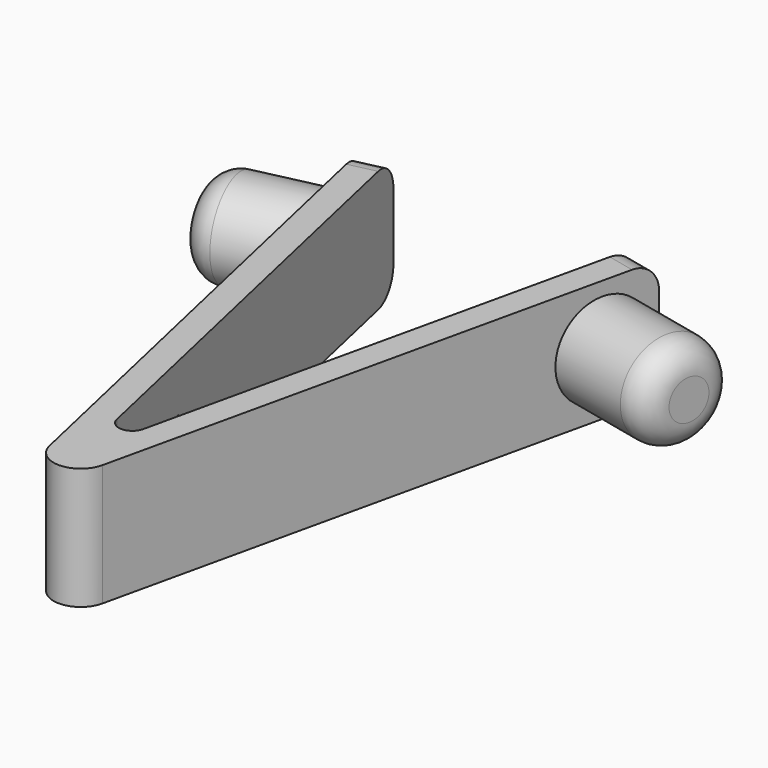
from build123d import *

# Parameters (mm, degrees)
F1_DEPTH      = 4.5
F1_DEPTH_BACK = 4.5
F3_DEPTH      = 1
F3_DEPTH_BACK = 1
F4_R          = 3.475
F5_DEPTH      = 8
F6_R          = 2
F8_R          = 2


with BuildPart() as f1:
    # F0 (on Top) → F1 (new body, two sides)
    with BuildSketch(Plane.XY) as f1_sk:
        with BuildLine():
            Line((-10.9997768011, 38.1843295809), (-1.9510017572, -1.9396118641))
            ThreePointArc((-1.9510017572, -1.9396118641), (0, -3.499620792), (1.9510017572, -1.9396118641))
            Line((1.9510017572, -1.9396118641), (10.9997768011, 38.1843295809))
            Line((10.9997768011, 38.1843295809), (9, 38.6353204298))
            Line((9, 38.6353204298), (0.9755008786, 3.0532077891))
            ThreePointArc((0.9755008786, 3.0532077891), (0, 2.2732033252), (-0.9755008786, 3.0532077891))
            Line((-0.9755008786, 3.0532077891), (-9, 38.6353204298))
            Line((-9, 38.6353204298), (-10.9997768011, 38.1843295809))
        make_face()
    extrude(amount=F1_DEPTH)
    extrude(f1_sk.sketch, amount=-F1_DEPTH_BACK)

    # F2 (on Top) → F3 (join, two sides)
    with BuildSketch(Plane.XY) as f3_sk:
        with BuildLine():
            ThreePointArc((4.067072408, 12.170038485), (0.0224234698, 10.1095648017), (-4.0222254685, 12.170038485))
            Line((-4.0222254685, 12.170038485), (-1.7974023818, -0.8990558693))
            Line((-1.7974023818, -0.8990558693), (1.8422493213, -0.8990558693))
            Line((1.8422493213, -0.8990558693), (4.067072408, 12.170038485))
        make_face()
    extrude(amount=F3_DEPTH)
    extrude(f3_sk.sketch, amount=-F3_DEPTH_BACK)

    # F4 (on face) → F5 (join)
    with BuildSketch(Plane(origin=(2.2728291349, -0.5125697729, 0), x_dir=(0.219995536, 0.9755008786, 0), z_dir=(0.9755008786, -0.219995536, 0))):
        with Locations((35.4849845171, 0)):
            Circle(F4_R)
    extrude(amount=F5_DEPTH)

    # F6
    f6_edges = [f1.edges().sort_by_distance(p)[0] for p in [
        (17.11889, 28.953234, 0),
    ]]
    fillet(f6_edges, radius=F6_R)

    # F7: F1 across plane


with BuildPart() as f1_1:
    add(f1.part)
    add(f1.part.mirror(Plane.YZ))

    # F8
    f8_edges = [f1_1.edges().sort_by_distance(p)[0] for p in [
        (9.999888, 38.409825, 4.5),
        (9.999888, 38.409825, -4.5),
        (-9.999888, 38.409825, -4.5),
        (-9.999888, 38.409825, 4.5),
    ]]
    fillet(f8_edges, radius=F8_R)


solid = f1_1.part
